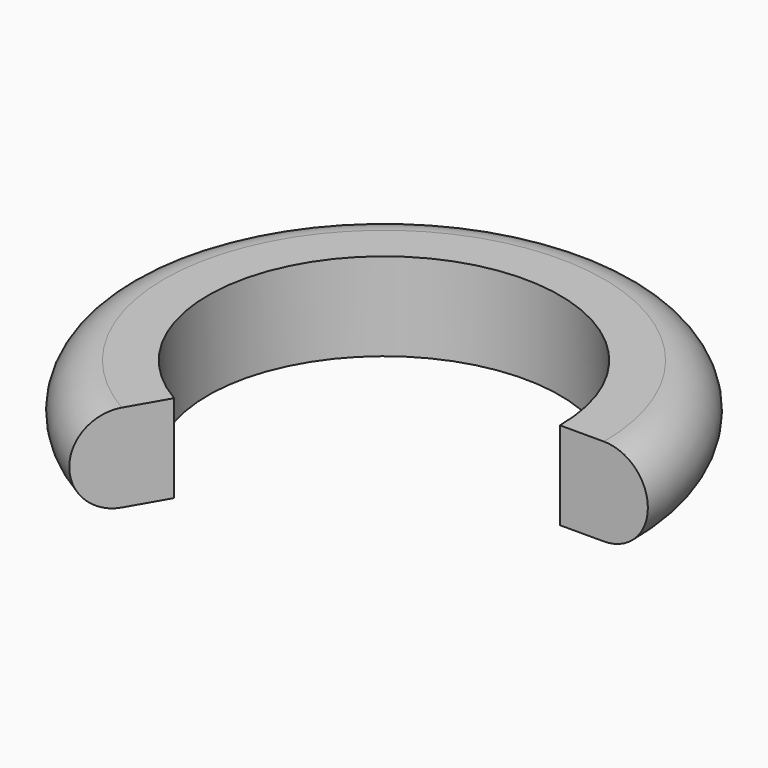
from build123d import *

# Parameters (mm, degrees)
F0_W     = 4
F0_H     = 8
F1_ANGLE = 240


with BuildPart() as f1:
    # F0 (on Front) → F1 (revolve)
    with BuildSketch(Plane.XZ):
        with Locations((52.268989, 4)):
            Rectangle(F0_W, F0_H)
        with BuildLine():
            Line((54.268989, 8), (54.268989, 0))
            ThreePointArc((54.268989, 0), (58.268989, 4), (54.268989, 8))
        make_face()
    revolve(axis=Axis((34.268989, 0, 6.415703), (0, 0, 1)), revolution_arc=F1_ANGLE)


solid = f1.part
